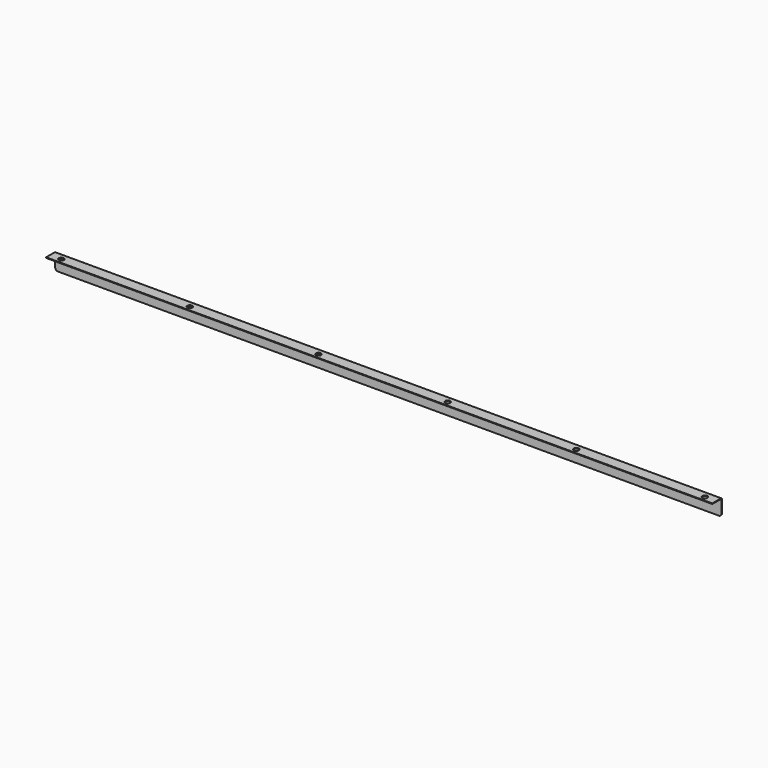
from build123d import *

# Parameters (mm, degrees)
F1_DEPTH = 1295.4
F2_R     = 5
F3_DEPTH = 25.4
F4_R     = 5.08


with BuildPart() as f1:
    # F0 (on Right) → F1 (new body)
    with BuildSketch(Plane.YZ):
        with BuildLine():
            Line((0, 28.518), (0, 0))
            Line((0, 0), (1.2, 0))
            Line((1.2, 0), (1.2, 29.21))
            ThreePointArc((1.2, 29.21), (0.456051, 31.006051), (-1.34, 31.75))
            Line((-1.34, 31.75), (-22.225, 31.75))
            Line((-22.225, 31.75), (-22.225, 30.55))
            Line((-22.225, 30.55), (-2.032, 30.55))
            ThreePointArc((-2.032, 30.55), (-0.595159, 29.954841), (0, 28.518))
        make_face()
    extrude(amount=F1_DEPTH)

    # F2 (on face) → F3 (cut)
    with BuildSketch(Plane.XY.offset(31.75)):
        with Locations((22, -12.7)):
            Circle(F2_R)
        with Locations((272, -12.7)):
            Circle(F2_R)
        with Locations((522, -12.7)):
            Circle(F2_R)
        with Locations((1273.4, -12.7)):
            Circle(F2_R)
        with Locations((1023.4, -12.7)):
            Circle(F2_R)
        with Locations((773.4, -12.7)):
            Circle(F2_R)
    extrude(amount=-F3_DEPTH, mode=Mode.SUBTRACT)

    # F4
    f4_edges = [f1.edges().sort_by_distance(p)[0] for p in [
        (1295.4, 0.6, 0),
        (0, 0.6, 0),
    ]]
    fillet(f4_edges, radius=F4_R)


solid = f1.part
